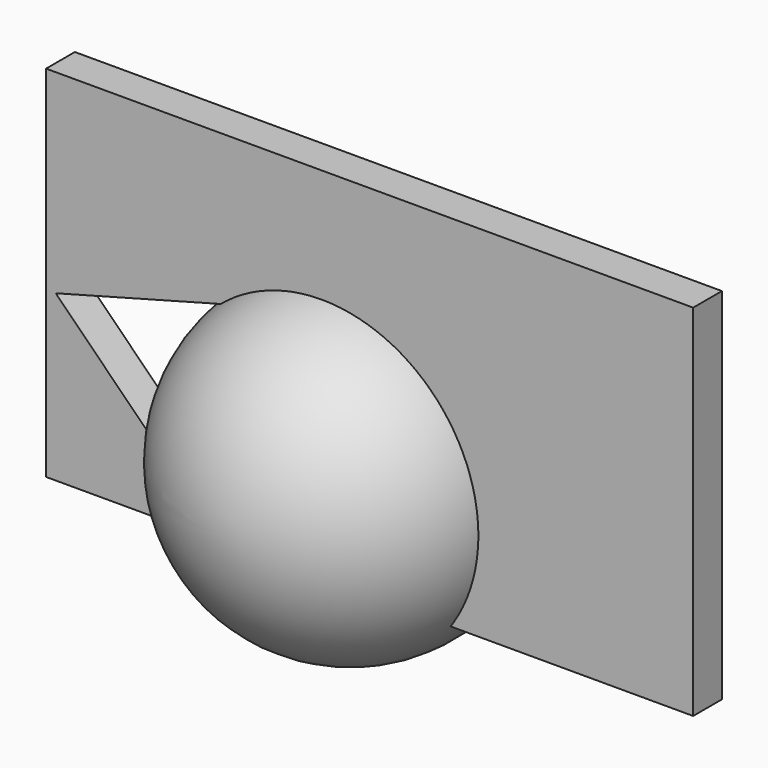
from build123d import *

# Parameters (mm, degrees)
F0_W     = 450
F0_H     = 250
F1_DEPTH = 25
F3_DEPTH = 50


with BuildPart() as f1:
    # F0 (on Front) → F1 (new body)
    with BuildSketch(Plane.XZ):
        with Locations((33.456496, 63.145977)):
            Rectangle(F0_W, F0_H)
    extrude(amount=F1_DEPTH)

    # F2 (on face) → F3 (cut)
    with BuildSketch(Plane(origin=(0, 0, 0), x_dir=(-1, 0, 0), z_dir=(0, 1, 0))):
        Polygon((70.156518, -61.854023), (184.812616, 52.802063), (27.961932, 94.830086), (69.945304, -61.854023), align=None)
    extrude(amount=-F3_DEPTH, mode=Mode.SUBTRACT)


with BuildPart() as f5:
    # F4 (on Top) → F5 (revolve)
    with BuildSketch(Plane.XY):
        with BuildLine():
            Line((0, 0), (0, 112.122815))
            ThreePointArc((0, 112.122815), (-112.122815, 0), (0, -112.122815))
            Line((0, -112.122815), (0, 0))
        make_face()
    revolve(axis=Axis((0, -56.061408, 0), (0, -1, 0)))


solid = Compound([f1.part, f5.part])
